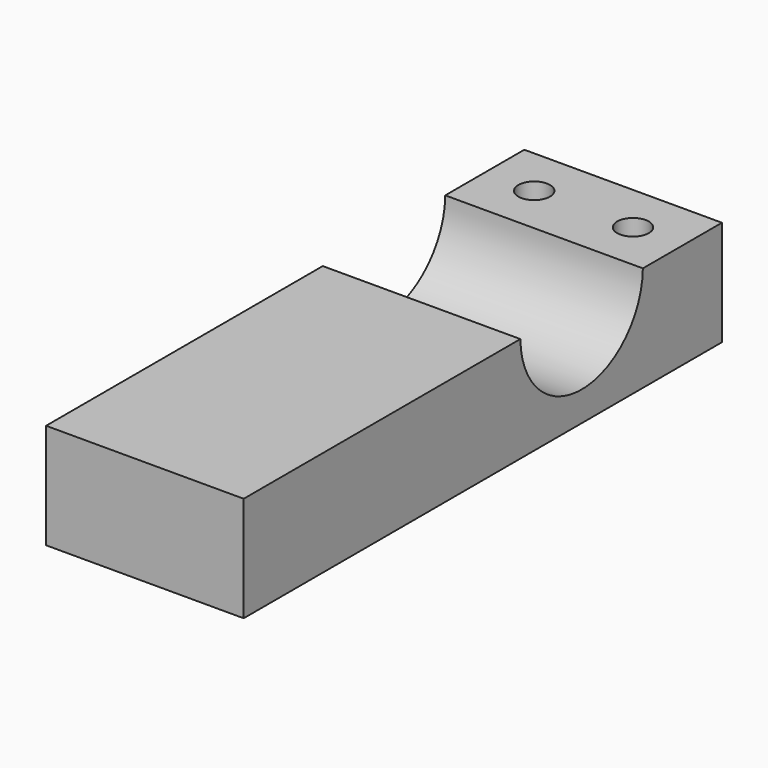
from build123d import *

# Parameters (mm, degrees)
F0_W     = 20
F0_H     = 30
F0_H_2   = 5
F0_R     = 1.6
F1_DEPTH = 10.75
F3_DEPTH = 25
F4_W     = 37.611449
F4_H     = 93.224645
F5_DEPTH = 0.1


with BuildPart() as f1:
    # F0 (on Top) → F1 (new body)
    with BuildSketch(Plane.XY):
        Rectangle(F0_W, F0_H)
        with Locations((0, 17.5)):
            Rectangle(F0_W, F0_H_2)
        Polygon((-10, 20), (10, 20), (10, 35.5), (0, 35.5), (-10, 35.5), align=None)
        Polygon((0, 35.5), (10, 35.5), (10, 45.5), (0, 45.5), (-10, 45.5), (-10, 35.5), align=None)
        with Locations((-5, 40.5)):
            Circle(F0_R, mode=Mode.SUBTRACT)
        with Locations((5, 40.5)):
            Circle(F0_R, mode=Mode.SUBTRACT)
    extrude(amount=F1_DEPTH)

    # F2 (on face) → F3 (cut)
    with BuildSketch(Plane.YZ.offset(10)):
        with BuildLine():
            ThreePointArc((20, 10.75), (27.75, 3), (35.5, 10.75))
            Line((35.5, 10.75), (20, 10.75))
        make_face()
        with BuildLine():
            Line((20, 10.75), (35.5, 10.75))
            ThreePointArc((35.5, 10.75), (27.75, 18.5), (20, 10.75))
        make_face()
    extrude(amount=-F3_DEPTH, mode=Mode.SUBTRACT)

    # F4 (on face) → F5 (cut)
    with BuildSketch(Plane.XY.offset(10.75)):
        with Locations((3.746708, 22.084623)):
            Rectangle(F4_W, F4_H)
    extrude(amount=-F5_DEPTH, mode=Mode.SUBTRACT)


solid = f1.part
